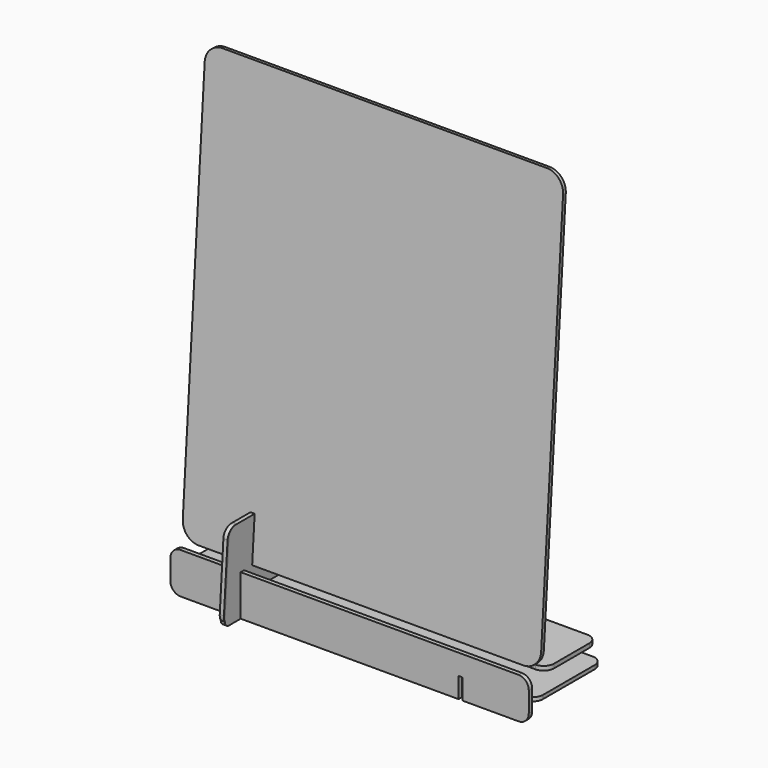
from build123d import *

# Parameters (mm, degrees)
PAD_DEPTH               = 2
PAD001_DEPTH            = 1.1
PAD002_DEPTH            = 2.2
BODY004_PLACEMENT_ANGLE = 90
PAD004_DEPTH            = 1.225
PAD005_DEPTH            = 2.45
PAD006_DEPTH            = 2.45
PAD007_DEPTH            = 1.225
PAD008_DEPTH            = 1.225
PAD009_DEPTH            = 2.45


with BuildPart() as body:
    # Sketch (on DatumPlane) → Pad (new body)
    with BuildSketch(Plane(origin=(0, -22.071287, 4.049479), x_dir=(1, 0, 0), z_dir=(0, -0.997564, 0.069756))):
        with BuildLine():
            Line((-95, 0), (95, 0))
            ThreePointArc((95, 0), (102.071068, 2.928932), (105, 10))
            Line((105, 10), (105, 240))
            ThreePointArc((105, 240), (102.071068, 247.071068), (95, 250))
            Line((95, 250), (-95, 250))
            ThreePointArc((-95, 250), (-102.071068, 247.071068), (-105, 240))
            Line((-105, 240), (-105, 10))
            ThreePointArc((-105, 10), (-102.071068, 2.928932), (-95, 0))
        make_face()
    extrude(amount=PAD_DEPTH)


with BuildPart() as body002:
    # Sketch002 → Pad001 (new body, symmetric)
    with BuildSketch(Plane.YZ.offset(65)):
        with BuildLine():
            Line((22.258538, 30), (2.097804, 30))
            Line((2.097804, 30), (0, 0))
            Line((0, 0), (-2.105128, 0))
            Line((-2.105128, 0), (-0.007324, 30))
            Line((-0.007324, 30), (-19.412233, 30))
            ThreePointArc((-19.412233, 30), (-23.504223, 28.388122), (-25.397617, 24.418539))
            Line((-27.741462, -9.1), (-25.397617, 24.418539))
            Line((-2.741462, -9.1), (-27.741462, -9.1))
            Line((-2.741462, -11), (-2.741462, -9.1))
            Line((-27.874323, -11), (-2.741462, -11))
            Line((-27.874323, -11), (-28.27925, -16.790731))
            ThreePointArc((-28.27925, -16.790731), (-27.480619, -19.045995), (-25.286558, -20))
            Line((-25.286558, -20), (32.37075, -20))
            ThreePointArc((32.37075, -20), (34.49207, -19.12132), (35.37075, -17))
            Line((35.37075, 24), (35.37075, -17))
            ThreePointArc((35.37075, 24), (33.61339, 28.242641), (29.37075, 30))
            Line((24.158538, 30), (29.37075, 30))
            Line((24.158538, 5), (24.158538, 30))
            Line((22.258538, 5), (24.158538, 5))
            Line((22.258538, 30), (22.258538, 5))
        make_face()
    extrude(amount=PAD001_DEPTH, both=True)


with BuildPart() as body002_1:
    # Body002 placement: moved
    add(body002.part.moved(Location((-130, 0, 0))))


with BuildPart() as body004:
    # Sketch004 (on Face20 of Binder002) → Pad002 (new body)
    with BuildSketch(Plane(origin=(0, 22.258538, 0), x_dir=(-1, 0, 0), z_dir=(0, 1, 0))):
        with BuildLine():
            Line((-99, -20), (-66.1, -20))
            Line((-66.1, 5), (-66.1, -20))
            Line((-63.9, 5), (-66.1, 5))
            Line((-63.9, -20), (-63.9, 5))
            Line((-63.9, -20), (63.9, -20))
            Line((63.9, 5), (63.9, -20))
            Line((66.1, 5), (63.9, 5))
            Line((66.1, -20), (66.1, 5))
            Line((66.1, -20), (99, -20))
            ThreePointArc((99, -20), (103.242641, -18.242641), (105, -14))
            Line((105, -14), (105, 24))
            ThreePointArc((105, 24), (103.242641, 28.242641), (99, 30))
            Line((99, 30), (-99, 30))
            ThreePointArc((-99, 30), (-103.242641, 28.242641), (-105, 24))
            Line((-105, 24), (-105, -14))
            ThreePointArc((-105, -14), (-103.242641, -18.242641), (-99, -20))
        make_face()
    extrude(amount=PAD002_DEPTH)


with BuildPart() as body004_1:
    # Body004 placement: moved
    add(body004.part.moved(Location((0, 1.9, -33.1))).rotate(Axis((0, 1.9, -33.1), (1, 0, 0)), BODY004_PLACEMENT_ANGLE))


with BuildPart() as body007:
    # Sketch007 → Pad004 (new body, symmetric)
    with BuildSketch(Plane.YZ.offset(65)):
        with BuildLine():
            Line((12, 30), (-20.181903, 30))
            Line((-20.181903, 30), (-22, 4))
            Line((-22, 4), (-24.105128, 4))
            Line((-24.105128, 4), (-22.287031, 30))
            Line((-22.287031, 30), (-35.132983, 30))
            ThreePointArc((-35.132983, 30), (-39.224973, 28.388122), (-41.118367, 24.418539))
            Line((-44, -16.790731), (-41.118367, 24.418539))
            ThreePointArc((-44, -16.790731), (-43.201369, -19.045995), (-41.007308, -20))
            Line((-41.007308, -20), (-32.25, -20))
            Line((-32.25, -8), (-32.25, -20))
            Line((-30, -8), (-32.25, -8))
            Line((-30, -20), (-30, -8))
            Line((-30, -20), (15, -20))
            ThreePointArc((15, -20), (17.12132, -19.12132), (18, -17))
            Line((18, 1.75), (18, -17))
            Line((0, 1.75), (18, 1.75))
            Line((0, 4), (0, 1.75))
            Line((18, 4), (0, 4))
            Line((18, 24), (18, 4))
            ThreePointArc((18, 24), (16.242641, 28.242641), (12, 30))
        make_face()
    extrude(amount=PAD004_DEPTH, both=True)


with BuildPart() as body007_1:
    # Body007 placement: moved
    add(body007.part.moved(Location((-130, 0, 0))))


with BuildPart() as body008:
    # Sketch008 (on Face13 of Binder003) → Pad005 (new body)
    with BuildSketch(Plane.XZ.offset(30)):
        with BuildLine():
            Line((-66.125, -20), (-66.125, -8))
            Line((-66.125, -8), (-63.875, -8))
            Line((-63.875, -8), (-63.875, -20))
            Line((-63.875, -20), (63.875, -20))
            Line((63.875, -20), (63.875, -8))
            Line((63.875, -8), (66.125, -8))
            Line((66.125, -8), (66.125, -20))
            Line((66.125, -20), (99, -20))
            ThreePointArc((99, -20), (103.242641, -18.242641), (105, -14))
            Line((105, -14), (105, -2))
            ThreePointArc((105, -2), (103.242641, 2.242641), (99, 4))
            Line((99, 4), (-99, 4))
            ThreePointArc((-99, 4), (-103.242641, 2.242641), (-105, -2))
            Line((-105, -2), (-105, -14))
            ThreePointArc((-105, -14), (-103.242641, -18.242641), (-99, -20))
            Line((-99, -20), (-66.125, -20))
        make_face()
    extrude(amount=PAD005_DEPTH)


with BuildPart() as body009:
    # Sketch009 (on Face17 of Binder006) → Pad006 (new body)
    with BuildSketch(Plane.XY.offset(1.75)):
        with BuildLine():
            Line((-66.125, -20), (-66.125, 0))
            Line((-66.125, 0), (-63.875, 0))
            Line((-63.875, 0), (-63.875, -20))
            Line((-63.875, -20), (63.875, -20))
            Line((63.875, -20), (63.875, 0))
            Line((63.875, 0), (66.125, 0))
            Line((66.125, 0), (66.125, -20))
            Line((66.125, -20), (99, -20))
            ThreePointArc((99, -20), (103.242641, -18.242641), (105, -14))
            Line((105, -14), (105, 12))
            ThreePointArc((105, 12), (103.242641, 16.242641), (99, 18))
            Line((99, 18), (-99, 18))
            ThreePointArc((-99, 18), (-103.242641, 16.242641), (-105, 12))
            Line((-105, 12), (-105, -14))
            ThreePointArc((-105, -14), (-103.242641, -18.242641), (-99, -20))
            Line((-99, -20), (-66.125, -20))
        make_face()
    extrude(amount=PAD006_DEPTH)


with BuildPart() as body011:
    # Sketch010 → Pad007 (new body, symmetric)
    with BuildSketch(Plane.YZ.offset(65)):
        with BuildLine():
            Line((-19.902196, 30), (-22, 0))
            Line((-22, 0), (-24.105128, 0))
            Line((-24.105128, 0), (-22.007324, 30))
            Line((-22.007324, 30), (-36.107397, 30))
            ThreePointArc((-36.107397, 30), (-40.199387, 28.388122), (-42.092781, 24.418539))
            Line((-42.092781, 24.418539), (-44.75, -13.581461))
            ThreePointArc((-44.75, -13.581461), (-43.152738, -18.09199), (-38.764616, -20))
            Line((-38.764616, -20), (-32.25, -20))
            Line((-32.25, -7.5), (-32.25, -20))
            Line((-30, -7.5), (-32.25, -7.5))
            Line((-30, -20), (-30, -7.5))
            Line((-30, -20), (159.25, -20))
            ThreePointArc((159.25, -20), (163.492641, -18.242641), (165.25, -14))
            Line((165.25, -14), (165.25, 3.875))
            Line((152.75, 3.875), (165.25, 3.875))
            Line((152.75, 6.125), (152.75, 3.875))
            Line((165.25, 6.125), (152.75, 6.125))
            Line((165.25, 6.125), (165.25, 24))
            ThreePointArc((165.25, 24), (163.492641, 28.242641), (159.25, 30))
            Line((159.25, 30), (-19.902196, 30))
        make_face()
    extrude(amount=PAD007_DEPTH, both=True)


with BuildPart() as body011_1:
    # Body011 placement: moved
    add(body011.part.moved(Location((-130, 0, 0))))


with BuildPart() as body013:
    # Sketch011 → Pad008 (new body, symmetric)
    with BuildSketch(Plane.YZ.offset(65)):
        with BuildLine():
            Line((12, 30), (-20.181903, 30))
            Line((-20.181903, 30), (-22, 4))
            Line((-22, 4), (-24.105128, 4))
            Line((-24.105128, 4), (-22.287031, 30))
            Line((-22.287031, 30), (-35.132983, 30))
            ThreePointArc((-35.132983, 30), (-39.224973, 28.388122), (-41.118367, 24.418539))
            Line((-44, -16.790731), (-41.118367, 24.418539))
            ThreePointArc((-44, -16.790731), (-43.201369, -19.045995), (-41.007308, -20))
            Line((-41.007308, -20), (-32.25, -20))
            Line((-32.25, -8), (-32.25, -20))
            Line((-30, -8), (-32.25, -8))
            Line((-30, -20), (-30, -8))
            Line((-30, -20), (15, -20))
            ThreePointArc((15, -20), (17.12132, -19.12132), (18, -17))
            Line((18, 1.75), (18, -17))
            Line((0, 1.75), (18, 1.75))
            Line((0, 4), (0, 1.75))
            Line((18, 4), (0, 4))
            Line((18, 24), (18, 4))
            ThreePointArc((18, 24), (16.242641, 28.242641), (12, 30))
        make_face()
    extrude(amount=PAD008_DEPTH, both=True)


with BuildPart() as body013_1:
    # Body013 placement: moved
    add(body013.part.moved(Location((-130, 0, 0))))


with BuildPart() as body014:
    # Sketch012 → Pad009 (new body)
    with BuildSketch(Plane.XZ.offset(30)):
        with BuildLine():
            Line((-66.125, -20), (-66.125, -8))
            Line((-66.125, -8), (-63.875, -8))
            Line((-63.875, -8), (-63.875, -20))
            Line((-63.875, -20), (63.875, -20))
            Line((63.875, -20), (63.875, -8))
            Line((63.875, -8), (66.125, -8))
            Line((66.125, -8), (66.125, -20))
            Line((66.125, -20), (99, -20))
            ThreePointArc((99, -20), (103.242641, -18.242641), (105, -14))
            Line((105, -14), (105, -2))
            ThreePointArc((105, -2), (103.242641, 2.242641), (99, 4))
            Line((99, 4), (-99, 4))
            ThreePointArc((-99, 4), (-103.242641, 2.242641), (-105, -2))
            Line((-105, -2), (-105, -14))
            ThreePointArc((-105, -14), (-103.242641, -18.242641), (-99, -20))
            Line((-99, -20), (-66.125, -20))
        make_face()
    extrude(amount=PAD009_DEPTH)


solid = Compound([body.part, body002_1.part, body004_1.part, body007_1.part, body008.part, body009.part, body011_1.part, body013_1.part, body014.part])
